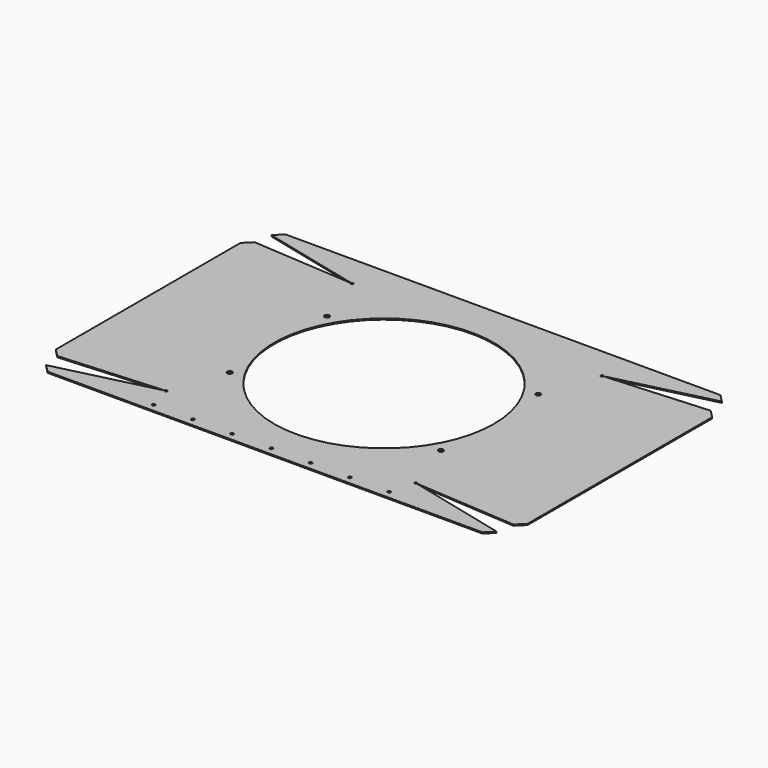
from build123d import *

# Parameters (mm, degrees)
F0_R     = 2
F0_R_2   = 3.15
F0_R_3   = 140
F1_DEPTH = 1.5


with BuildPart() as f1:
    # F0 (on Top) → F1 (new body)
    with BuildSketch(Plane.XY):
        with BuildLine():
            Line((-160.457017, -148.356514), (-287, -179.32))
            Line((-287, -179.32), (-277, -189.32))
            Line((-277, -189.32), (277, -189.32))
            Line((277, -189.32), (287, -179.32))
            Line((287, -179.32), (160.457017, -148.356514))
            ThreePointArc((160.457017, -148.356514), (157.517789, -147.769673), (160.496498, -148.102445))
            Line((160.496498, -148.102445), (290.47, -157))
            Line((290.47, -157), (300.47, -147))
            Line((300.47, -147), (300.47, 147))
            Line((300.47, 147), (290.47, 157))
            Line((290.47, 157), (160.496498, 148.102445))
            ThreePointArc((160.496498, 148.102445), (157.517789, 147.769673), (160.457017, 148.356514))
            Line((160.457017, 148.356514), (287, 179.32))
            Line((287, 179.32), (277, 189.32))
            Line((277, 189.32), (-277, 189.32))
            Line((-277, 189.32), (-287, 179.32))
            Line((-287, 179.32), (-160.457017, 148.356514))
            ThreePointArc((-160.457017, 148.356514), (-157.517789, 147.769673), (-160.496498, 148.102445))
            Line((-160.496498, 148.102445), (-290.47, 157))
            Line((-290.47, 157), (-300.47, 147))
            Line((-300.47, 147), (-300.47, -147))
            Line((-300.47, -147), (-290.47, -157))
            Line((-290.47, -157), (-160.496498, -148.102445))
            ThreePointArc((-160.496498, -148.102445), (-157.517789, -147.769673), (-160.457017, -148.356514))
        make_face()
        with Locations((-150, -179.32)):
            Circle(F0_R, mode=Mode.SUBTRACT)
        with Locations((-100, -179.32)):
            Circle(F0_R, mode=Mode.SUBTRACT)
        with Locations((-50, -179.32)):
            Circle(F0_R, mode=Mode.SUBTRACT)
        with Locations((-134.5, -77.5)):
            Circle(F0_R_2, mode=Mode.SUBTRACT)
        with Locations((0, -179.32)):
            Circle(F0_R, mode=Mode.SUBTRACT)
        with Locations((50, -179.32)):
            Circle(F0_R, mode=Mode.SUBTRACT)
        with Locations((100, -179.32)):
            Circle(F0_R, mode=Mode.SUBTRACT)
        with Locations((150, -179.32)):
            Circle(F0_R, mode=Mode.SUBTRACT)
        with Locations((134.5, -77.5)):
            Circle(F0_R_2, mode=Mode.SUBTRACT)
        with Locations((-134.5, 77.5)):
            Circle(F0_R_2, mode=Mode.SUBTRACT)
        Circle(F0_R_3, mode=Mode.SUBTRACT)
        with Locations((134.5, 77.5)):
            Circle(F0_R_2, mode=Mode.SUBTRACT)
    extrude(amount=F1_DEPTH)


solid = f1.part
